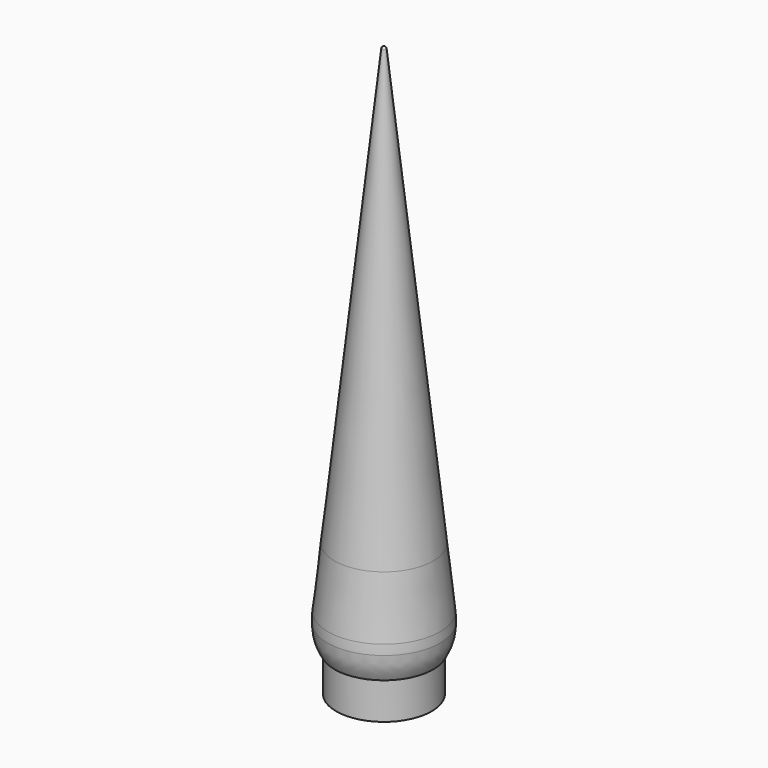
from build123d import *


with BuildPart() as f1:
    # F0 (on Front) → F1 (revolve)
    with BuildSketch(Plane.XZ):
        with BuildLine():
            Line((0, 59.608808), (0, 53))
            Line((0, 53), (1.98564, 53))
            ThreePointArc((1.98564, 53), (2.243281, 52.893281), (2.35, 52.63564))
            Line((2.35, 52.63564), (2.35, 0))
            Line((2.35, 0), (4.6, 0))
            Line((4.6, 0), (4.6, 52.208291))
            ThreePointArc((4.6, 52.208291), (4.534388, 52.611216), (4.344333, 52.972509))
            ThreePointArc((4.344333, 52.972509), (2.062526, 56.218884), (0, 59.608808))
        make_face()
        with BuildLine():
            ThreePointArc((-10, 89.123821), (-7.453856, 70.38262), (0, 53))
            Line((0, 53), (0, 59.608808))
            ThreePointArc((0, 59.608808), (-5.780208, 73.866049), (-7.75, 89.123821))
            Line((-7.75, 89.123821), (-10, 89.123821))
        make_face()
        with BuildLine():
            ThreePointArc((-9.257581, 102.835982), (-9.814259, 95.989943), (-10, 89.123821))
            Line((-10, 89.123821), (-7.75, 89.123821))
            ThreePointArc((-7.75, 89.123821), (-7.56755, 95.8683), (-7.020734, 102.59305))
            Line((-7.020734, 102.59305), (0, 167.237922))
            Line((0, 167.237922), (0, 188.077089))
            Line((0, 188.077089), (-9.257581, 102.835982))
        make_face()
        with BuildLine():
            Line((0, 188.077089), (0, 167.237922))
            Line((0, 167.237922), (69.104384, 803.530977))
            ThreePointArc((69.104384, 803.530977), (69.349117, 804.008226), (69.85, 804.2))
            Line((69.85, 804.2), (69.85, 806.45))
            ThreePointArc((69.85, 806.45), (67.846469, 805.682905), (66.867537, 803.773909))
            Line((66.867537, 803.773909), (0, 188.077089))
        make_face()
    revolve(axis=Axis((69.85, 0, 403.225), (0, 0, 1)))


solid = f1.part
